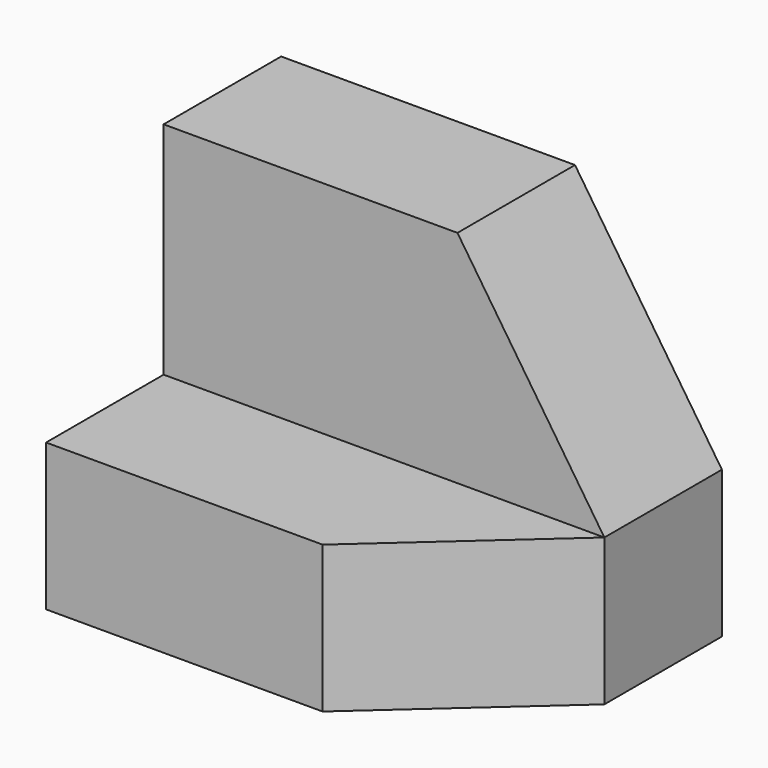
from build123d import *

# Parameters (mm, degrees)
F1_DEPTH = 25.4
F2_W     = 38.1
F2_H     = 12.7
F3_DEPTH = 19.05
F5_DEPTH = 25.4
F7_DEPTH = 25.4


with BuildPart() as f1:
    # F0 (on Front) → F1 (new body)
    with BuildSketch(Plane.XZ):
        Polygon((19.05, 0), (0, 0), (-19.05, 0), (-19.05, -31.75), (19.05, -31.75), align=None)
    extrude(amount=F1_DEPTH)

    # F2 (on face) → F3 (cut)
    with BuildSketch(Plane.XY):
        with Locations((0, -19.05)):
            Rectangle(F2_W, F2_H)
    extrude(amount=-F3_DEPTH, mode=Mode.SUBTRACT)

    # F4 (on face) → F5 (cut)
    with BuildSketch(Plane.XY.offset(-19.05)):
        Polygon((19.05, -25.4), (19.05, -12.7), (4.850968, -25.4), align=None)
    extrude(amount=-F5_DEPTH, mode=Mode.SUBTRACT)

    # F6 (on face) → F7 (cut)
    with BuildSketch(Plane.XZ.offset(12.7)):
        Polygon((19.05, -19.05), (19.05, 0), (6.35, 0), align=None)
    extrude(amount=-F7_DEPTH, mode=Mode.SUBTRACT)


solid = f1.part
